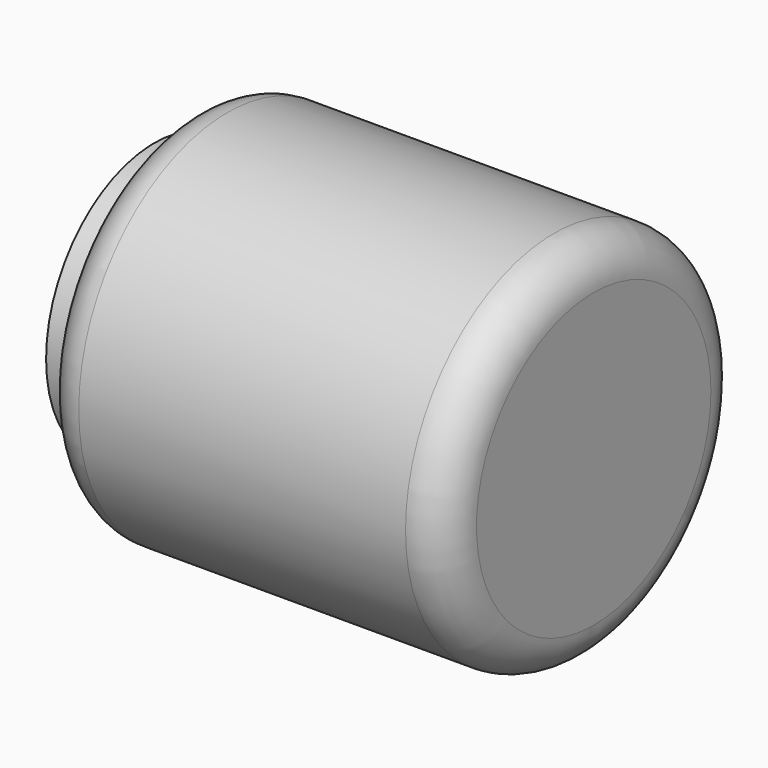
from build123d import *

# Parameters (mm, degrees)
F0_R          = 104.775
F1_DEPTH      = 114.3
F1_DEPTH_BACK = 114.3
F2_R          = 76.2
F3_DEPTH      = 19.05
F4_R          = 22.225


with BuildPart() as f1:
    # F0 (on Right) → F1 (new body, two sides)
    with BuildSketch(Plane.YZ) as f1_sk:
        Circle(F0_R)
    extrude(amount=F1_DEPTH)
    extrude(f1_sk.sketch, amount=-F1_DEPTH_BACK)

    # F2 (on face) → F3 (join)
    with BuildSketch(Plane(origin=(-114.3, 0, 0), x_dir=(0, -1, 0), z_dir=(-1, 0, 0))):
        Circle(F2_R)
    extrude(amount=F3_DEPTH)

    # F4
    f4_edges = [f1.edges().sort_by_distance(p)[0] for p in [
        (-114.3, -104.775, 0),
        (114.3, -104.775, 0),
    ]]
    fillet(f4_edges, radius=F4_R)


solid = f1.part
